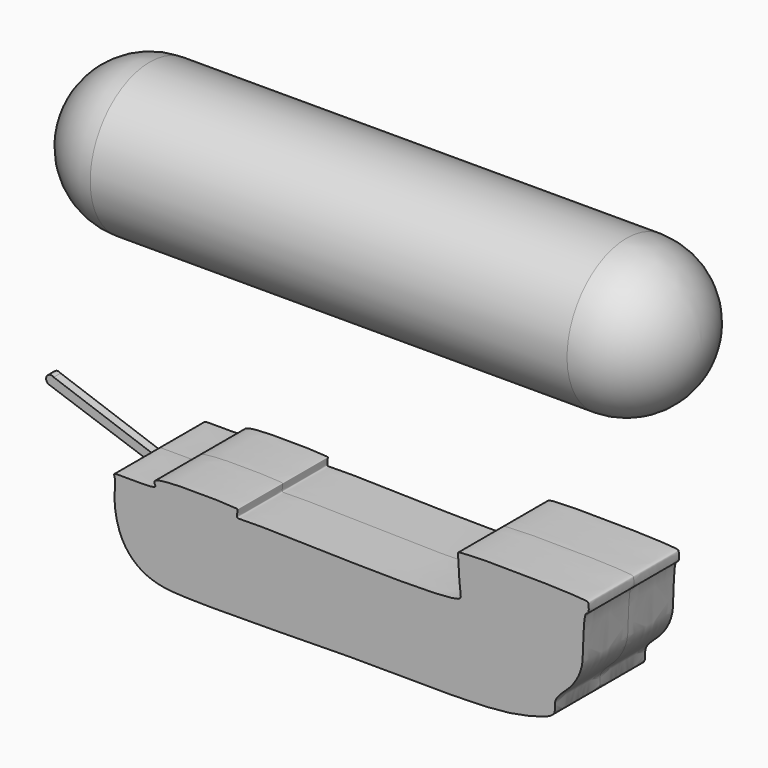
from build123d import *

# Parameters (mm, degrees)
F0_W     = 41.198913008
F0_H     = 12.8746591508
F3_DEPTH = 9.75
F5_DEPTH = 0.75


with BuildPart() as f1:
    # F0 (on Front) → F1 (revolve)
    with BuildSketch(Plane.XZ):
        with Locations((-20.599456504, 19.3119887263)):
            Rectangle(F0_W, F0_H)
        with Locations((20.599456504, 19.3119887263)):
            Rectangle(F0_W, F0_H)
        with BuildLine():
            Line((-41.198913008, 12.8746591508), (-41.198913008, 25.7493183017))
            ThreePointArc((-41.198913008, 25.7493183017), (-50.302671799, 21.9784179419), (-54.0735721588, 12.8746591508))
            Line((-54.0735721588, 12.8746591508), (-41.198913008, 12.8746591508))
        make_face()
        with BuildLine():
            ThreePointArc((54.0735721588, 12.8746591508), (50.302671799, 21.9784179419), (41.198913008, 25.7493183017))
            Line((41.198913008, 25.7493183017), (41.198913008, 12.8746591508))
            Line((41.198913008, 12.8746591508), (54.0735721588, 12.8746591508))
        make_face()
    revolve(axis=Axis((0, 0, 12.8746591508), (1, 0, 0)))


with BuildPart() as f3:
    # F2 (on Front) → F3 (new body, symmetric)
    with BuildSketch(Plane.XZ):
        with BuildLine():
            add(Edge.make_bspline(
                [(-39.5080782473, -35.838317126), (-39.4791760216, -35.4066517075), (-39.4502737959, -34.974986289), (-39.4314774388, -34.5717367208)],
                knots=[0, 0, 0, 0, 0.0268552885, 0.0268552885, 0.0268552885, 0.0268552885], degree=3))
            add(Edge.make_bspline(
                [(-39.5080782473, -35.838317126), (-39.4945399325, -36.461123032), (-39.4607344024, -38.016285843), (-38.3395737782, -42.7656945783), (-33.7247142777, -46.9750445327), (-25.5207345121, -47.2980059506), (-12.8822166143, -47.2820568303), (2.0911641254, -46.818140277), (25.4587559594, -47.4024286709), (32.521977693, -45.8985232563), (37.1381781423, -44.4989726013), (36.0836088429, -41.8379871451), (39.3920275479, -39.4766332469), (41.2285856314, -36.264307841), (41.5523012926, -33.335846059), (41.5397553849, -26.8523246958), (42.5212652381, -27.1653215005), (42.4302611758, -25.4059836265), (42.0964830964, -24.8551743359), (19.6315497382, -24.4891901059), (19.8376274171, -25.119229167), (19.8538806289, -25.1689199358)],
                knots=[0, 0, 0, 0, 0.0335340568, 0.0837354262, 0.139385956, 0.2046271521, 0.2861981868, 0.3794983303, 0.4912816889, 0.5551302971, 0.5995437874, 0.6319617603, 0.6767004961, 0.7204143754, 0.7637332458, 0.8194704106, 0.8344893807, 0.861619332, 0.882075209, 0.9906993488, 1, 1, 1, 1], degree=3))
            add(Edge.make_bspline(
                [(-39.416417436, -33.4518216897), (-39.4277558634, -33.1669284338), (-39.4868386134, -32.6661715294), (-40.0373604858, -32.0065658604), (-31.8689141013, -32.7007925635), (-32.6319486468, -31.5842244133), (-32.7658161624, -30.2425696661), (-18.2835151874, -30.6569831131), (-18.2200508135, -30.9280980656), (-18.4403771218, -32.3675689755), (-17.1413518528, -31.7742071958), (20.9249560434, -33.5401263428), (20.16548368, -30.9682999002), (19.9819175205, -27.5518702337), (19.8538806289, -25.1689199358)],
                knots=[0.0543844186, 0.0543844186, 0.0543844186, 0.0543844186, 0.0786627761, 0.105496166, 0.2235778731, 0.2553161585, 0.2911924799, 0.4582869164, 0.4784616283, 0.5249733193, 0.5700853934, 0.8431091545, 0.8905690667, 1, 1, 1, 1], degree=3))
            add(Edge.make_bspline(
                [(-39.4314774388, -34.5717367208), (-39.4122094514, -34.1583689842), (-39.4035608397, -33.7748609853), (-39.416417436, -33.4518216897)],
                knots=[0.0268552885, 0.0268552885, 0.0268552885, 0.0268552885, 0.0543844186, 0.0543844186, 0.0543844186, 0.0543844186], degree=3))
        make_face()
    extrude(amount=F3_DEPTH, both=True)

    # F4 (on Front) → F5 (join, symmetric)
    with BuildSketch(Plane.XZ):
        with BuildLine():
            Line((-57.9834356904, -28.5092871636), (-39.4192896783, -34.9525138736))
            Line((-39.4192896783, -34.9525138736), (-39.2279066145, -33.4852449596))
            Line((-39.2279066145, -33.4852449596), (-57.2179034352, -27.105813846))
            ThreePointArc((-57.2179034352, -27.105813846), (-58.42914983, -27.3556513776), (-57.9834356904, -28.5092871636))
        make_face()
    extrude(amount=F5_DEPTH, both=True)


solid = Compound([f1.part, f3.part])
